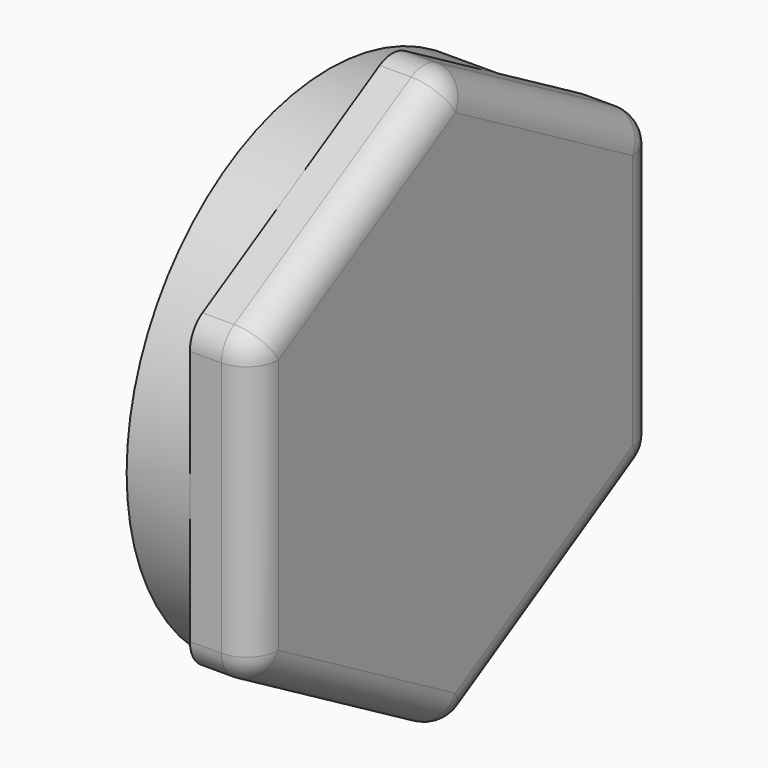
from build123d import *

# Parameters (mm, degrees)
F0_R     = 8
F1_DEPTH = 2
F3_DEPTH = 2
F4_R     = 1


with BuildPart() as f1:
    # F0 (on Right) → F1 (new body)
    with BuildSketch(Plane.YZ):
        Circle(F0_R)
    extrude(amount=F1_DEPTH)

    # F2 (on face) → F3 (join)
    with BuildSketch(Plane.YZ.offset(2)):
        Polygon((8, -4.618802), (8, 4.618802), (0, 9.237604), (-8, 4.618802), (-8, -4.618802), (0, -9.237604), align=None)
    extrude(amount=F3_DEPTH)

    # F4
    f4_edges = [f1.edges().sort_by_distance(p)[0] for p in [
        (3, 0, 9.237604),
        (3, 8, 4.618802),
        (3, 8, -4.618802),
        (3, -8, 4.618802),
        (3, -8, -4.618802),
        (3, 0, -9.237604),
        (4, -4, 6.928203),
        (4, -8, 0),
        (4, -4, -6.928203),
        (4, 4, 6.928203),
        (4, 8, 0),
        (4, 4, -6.928203),
    ]]
    fillet(f4_edges, radius=F4_R)


solid = f1.part
